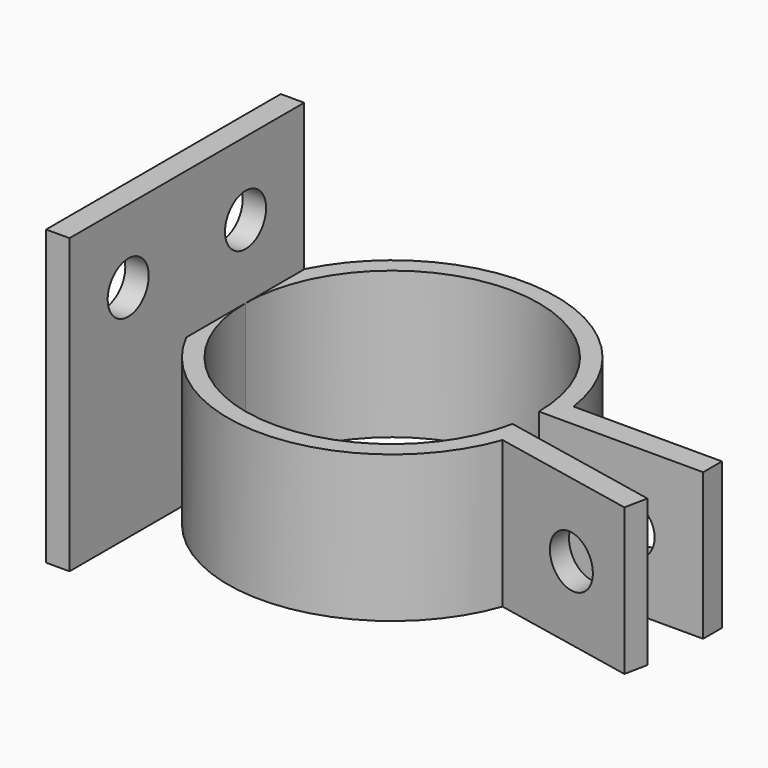
from build123d import *

# Parameters (mm, degrees)
F1_DEPTH = 10
F2_DEPTH = 10
F3_R     = 1.75
F4_DEPTH = 25
F5_R     = 1.75
F6_DEPTH = 25


with BuildPart() as f1:
    # F0 (on Top) → F1 (new body)
    with BuildSketch(Plane.XY):
        with BuildLine():
            Line((10.976, -2.2287718591), (9.8, -1.9899748742))
            ThreePointArc((9.8, -1.9899748742), (-0.999999957, -9.9498743754), (-10, -8.64e-08))
            Line((-10, -8.64e-08), (-10, -5.0438080852))
            ThreePointArc((-10, -5.0438080852), (0.6909576709, -11.178666177), (10.5450266852, -3.7739120563))
            ThreePointArc((10.5450266852, -3.7739120563), (10.7882117125, -3.0090676374), (10.976, -2.2287718591))
        make_face()
        with BuildLine():
            Line((-10, 5), (-10, -8.64e-08))
            ThreePointArc((-10, -8.64e-08), (-4.32e-08, 10), (10, 0))
            Line((10, 0), (11.2, 0))
            ThreePointArc((11.2, 0), (11.1712443776, 0.8020592601), (11.0851251684, 1.6))
            ThreePointArc((11.0851251684, 1.6), (1.781171417, 11.0574603044), (-10.0219758531, 5))
            Line((-10.0219758531, 5), (-10, 5))
        make_face()
        with BuildLine():
            Line((-10, -5.0438080852), (-10, -8.64e-08))
            Line((-10, -8.64e-08), (-10, 5))
            Line((-10, 5), (-10.0219758531, 5))
            ThreePointArc((-10.0219758531, 5), (-11.199973191, -0.0245055425), (-10, -5.0438080852))
        make_face()
        with BuildLine():
            Line((20.776, -4.2187467333), (10.976, -2.2287718591))
            ThreePointArc((10.976, -2.2287718591), (10.7882117125, -3.0090676374), (10.5450266852, -3.7739120563))
            Line((10.5450266852, -3.7739120563), (20.4576040201, -5.7867467333))
            Line((20.4576040201, -5.7867467333), (20.776, -4.2187467333))
        make_face()
        with BuildLine():
            Line((-10, -15), (-10, -5.0438080852))
            ThreePointArc((-10, -5.0438080852), (-11.199973191, -0.0245055425), (-10.0219758531, 5))
            Line((-10.0219758531, 5), (-11.6, 5))
            Line((-11.6, 5), (-11.6, -15))
            Line((-11.6, -15), (-10, -15))
        make_face()
        with BuildLine():
            ThreePointArc((11.0851251684, 1.6), (11.1712443776, 0.8020592601), (11.2, 0))
            Line((11.2, 0), (21.2, 0))
            Line((21.2, 0), (21.2, 1.6))
            Line((21.2, 1.6), (11.0851251684, 1.6))
        make_face()
    extrude(amount=-F1_DEPTH)

    # F0 (on Top) → F2 (join)
    with BuildSketch(Plane.XY):
        with BuildLine():
            Line((-10, -15), (-10, -5.0438080852))
            ThreePointArc((-10, -5.0438080852), (-11.199973191, -0.0245055425), (-10.0219758531, 5))
            Line((-10.0219758531, 5), (-11.6, 5))
            Line((-11.6, 5), (-11.6, -15))
            Line((-11.6, -15), (-10, -15))
        make_face()
        with BuildLine():
            Line((-10, -5.0438080852), (-10, -8.64e-08))
            Line((-10, -8.64e-08), (-10, 5))
            Line((-10, 5), (-10.0219758531, 5))
            ThreePointArc((-10.0219758531, 5), (-11.199973191, -0.0245055425), (-10, -5.0438080852))
        make_face()
    extrude(amount=F2_DEPTH)

    # F3 (on face) → F4 (cut)
    with BuildSketch(Plane(origin=(-11.6, 0, 0), x_dir=(0, -1, 0), z_dir=(-1, 0, 0))):
        with Locations((0, 5)):
            Circle(F3_R)
        with BuildLine():
            ThreePointArc((11.75, 5), (10, 6.75), (8.25, 5))
            ThreePointArc((8.25, 5), (10, 3.25), (11.75, 5))
        make_face()
    extrude(amount=-F4_DEPTH, mode=Mode.SUBTRACT)

    # F5 (on face) → F6 (cut)
    with BuildSketch(Plane(origin=(0, 1.6, 0), x_dir=(-1, 0, 0), z_dir=(0, 1, 0))):
        with Locations((-16.1425625842, -5)):
            Circle(F5_R)
    extrude(amount=-F6_DEPTH, mode=Mode.SUBTRACT)


solid = f1.part
